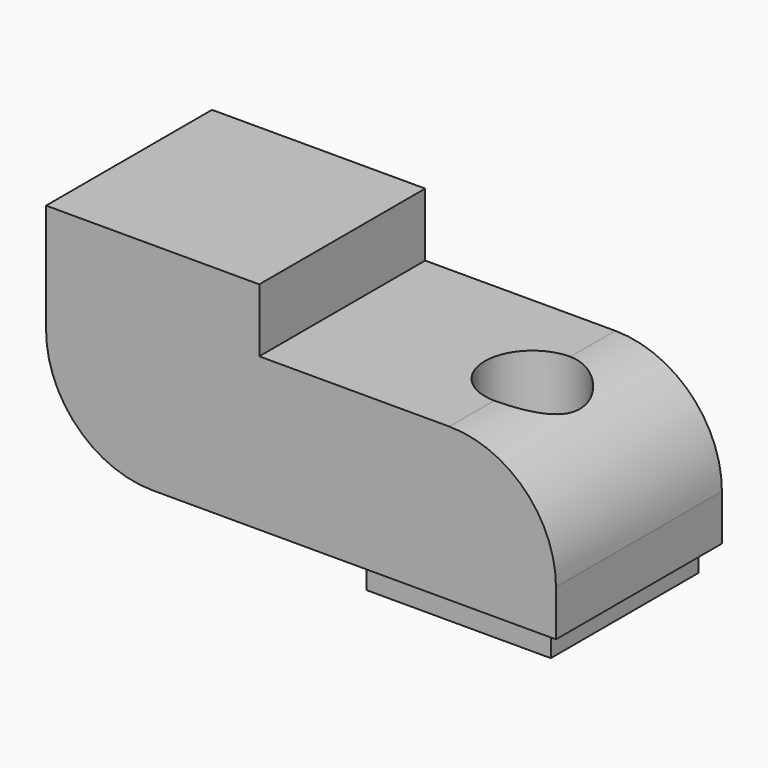
from build123d import *

# Parameters (mm, degrees)
F0_W           = 88.5
F0_H           = 26.5
F1_DEPTH       = 18
F2_W           = 37
F2_H           = 36
F3_DEPTH       = 11
F4_R           = 18.5
F6_W           = 32
F6_H           = 32
F7_DEPTH       = 4.5
F8_D           = 11
F8_CBORE_D     = 16.5
F8_CBORE_DEPTH = 12


with BuildPart() as f1:
    # F0 (on Front) → F1 (new body, symmetric)
    with BuildSketch(Plane.XZ):
        Rectangle(F0_W, F0_H)
    extrude(amount=F1_DEPTH, both=True)

    # F2 (on face) → F3 (join)
    with BuildSketch(Plane.XY.offset(13.25)):
        with Locations((-25.75, 0)):
            Rectangle(F2_W, F2_H)
    extrude(amount=F3_DEPTH)

    # F4
    f4_edges = [f1.edges().sort_by_distance(p)[0] for p in [
        (44.25, 0, 13.25),
        (-44.25, 0, -13.25),
    ]]
    fillet(f4_edges, radius=F4_R)

    # F6 (on face) → F7 (join)
    with BuildSketch(Plane(origin=(0, 0, -13.25), x_dir=(1, 0, 0), z_dir=(0, 0, -1))):
        with Locations((25.75, 0)):
            Rectangle(F6_W, F6_H)
    extrude(amount=F7_DEPTH)

    # F8 (through all)
    with Locations(Plane.XY.offset(13.25)):
        with Locations((25.75, 0)):
            CounterBoreHole(F8_D / 2, F8_CBORE_D / 2, F8_CBORE_DEPTH)


solid = f1.part
